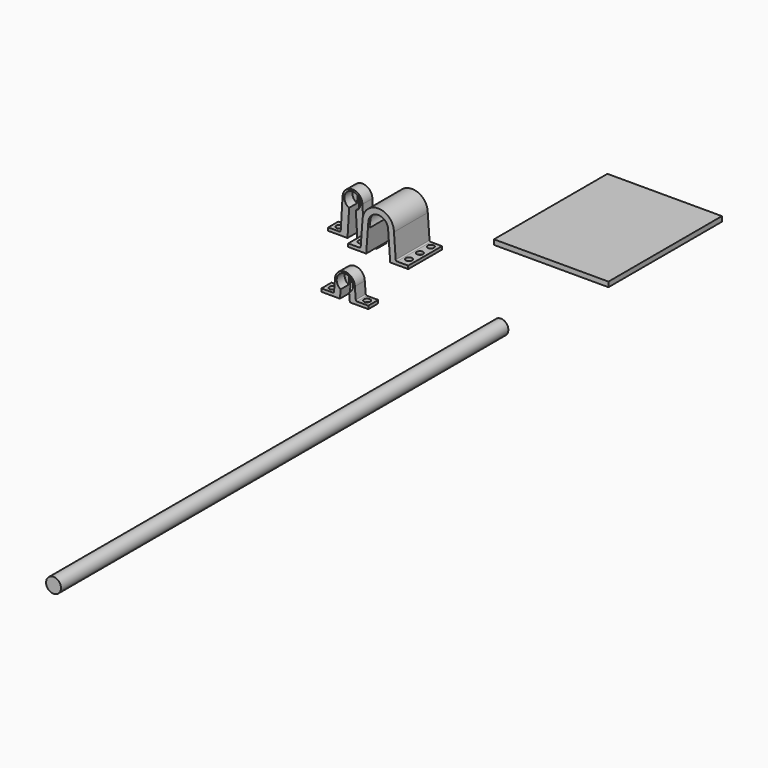
from build123d import *

# Parameters (mm, degrees)
F5_DEPTH  = 2
F7_DEPTH  = 10
F9_DEPTH  = 8
F10_DEPTH = 30
F11_R     = 2.55
F13_DEPTH = 2.5
F12_R     = 2.55
F14_DEPTH = 2.5
F15_R     = 2.55
F16_R     = 2.55
F17_DEPTH = 2.5
F19_DEPTH = 2
F20_R     = 1
F20_2_R   = 1
F22_DEPTH = 10
F24_R     = 2.55
F25_R     = 2.55
F26_DEPTH = 2.5
F27_R     = 1
F28_DEPTH = 8
F29_R     = 6
F30_DEPTH = 450
F31_W     = 92.136753723
F31_H     = 114.1239255667
F32_DEPTH = 4


with BuildPart() as f5:
    # F4 (on Front) → F5 (new body)
    with BuildSketch(Plane.XZ):
        with BuildLine():
            Line((6.114652846, 20.0959499925), (4.6272888825, 40.0959499925))
            ThreePointArc((4.6272888825, 40.0959499925), (-8.0474885181, 52.7707273931), (-20.7222659187, 40.0959499925))
            Line((-20.7222659187, 40.0959499925), (-22.2096298821, 20.0959499925))
            Line((-22.2096298821, 20.0959499925), (-32.2096298821, 20.0959499925))
            Line((-32.2096298821, 20.0959499925), (-32.2096298821, 17.5959499925))
            Line((-32.2096298821, 17.5959499925), (-17.720772977, 17.5959499925))
            Line((-17.720772977, 17.5959499925), (-16.0474885181, 40.0959499925))
            ThreePointArc((-16.0474885181, 40.0959499925), (-14.7241353227, 44.1939030544), (-11.6693254615, 47.2291328133))
            Line((-11.6693254615, 47.2291328133), (-10.0474885181, 46.804153925))
            ThreePointArc((-10.0474885181, 46.804153925), (-8.0474885181, 47.0959499925), (-6.0474885181, 46.804153925))
            Line((-6.0474885181, 46.804153925), (-4.4256515746, 47.2291328133))
            ThreePointArc((-4.4256515746, 47.2291328133), (-1.3708417134, 44.1939030544), (-0.0474885181, 40.0959499925))
            Line((-0.0474885181, 40.0959499925), (1.6257959408, 17.5959499925))
            Line((1.6257959408, 17.5959499925), (16.114652846, 17.5959499925))
            Line((16.114652846, 17.5959499925), (16.114652846, 20.0959499925))
            Line((16.114652846, 20.0959499925), (6.114652846, 20.0959499925))
        make_face()
    extrude(amount=F5_DEPTH)

    # F6 (on face) → F10 (join)
    with BuildSketch(Plane.XZ.offset(2)):
        with BuildLine():
            ThreePointArc((-16.3860004266, 35.544113094), (-8.0474885181, 49.5959499925), (0.2910233905, 35.544113094))
            Line((0.2910233905, 35.544113094), (1.6257959408, 17.5959499925))
            Line((1.6257959408, 17.5959499925), (16.114652846, 17.5959499925))
            Line((16.114652846, 17.5959499925), (16.114652846, 20.0959499925))
            Line((16.114652846, 20.0959499925), (6.114652846, 20.0959499925))
            Line((6.114652846, 20.0959499925), (4.6272888825, 40.0959499925))
            ThreePointArc((4.6272888825, 40.0959499925), (-8.0474885181, 52.7707273931), (-20.7222659187, 40.0959499925))
            Line((-20.7222659187, 40.0959499925), (-22.2096298821, 20.0959499925))
            Line((-22.2096298821, 20.0959499925), (-32.2096298821, 20.0959499925))
            Line((-32.2096298821, 20.0959499925), (-32.2096298821, 17.5959499925))
            Line((-32.2096298821, 17.5959499925), (-17.720772977, 17.5959499925))
            Line((-17.720772977, 17.5959499925), (-16.3860004266, 35.544113094))
        make_face()
    extrude(amount=F10_DEPTH)

    # F15 (on face) + F16 (on face) → F17 (cut, through all)
    with BuildSketch(Plane.XY.offset(20.0959499925)):
        with Locations((-27.2096298821, -5)):
            Circle(F15_R)
        with Locations((-27.2096298821, -16)):
            Circle(F15_R)
        with Locations((-27.2096298821, -27)):
            Circle(F15_R)
    with BuildSketch(Plane.XY.offset(20.0959499925)):
        with Locations((11.114652846, -27)):
            Circle(F16_R)
        with Locations((11.114652846, -16)):
            Circle(F16_R)
        with Locations((11.114652846, -5)):
            Circle(F16_R)
    extrude(amount=-F17_DEPTH, mode=Mode.SUBTRACT)

    # F18 (on face) → F19 (join)
    with BuildSketch(Plane.XZ.offset(32)):
        with BuildLine():
            ThreePointArc((-16.0474885181, 40.0959499925), (-8.0474885181, 48.0959499925), (-0.0474885181, 40.0959499925))
            Line((-0.0474885181, 40.0959499925), (0.2910233905, 35.544113094))
            ThreePointArc((0.2910233905, 35.544113094), (-8.0474885181, 49.5959499925), (-16.3860004266, 35.544113094))
            Line((-16.3860004266, 35.544113094), (-16.0474885181, 40.0959499925))
        make_face()
        with BuildLine():
            ThreePointArc((-16.3860004266, 35.544113094), (-8.0474885181, 49.5959499925), (0.2910233905, 35.544113094))
            Line((0.2910233905, 35.544113094), (1.6257959408, 17.5959499925))
            Line((1.6257959408, 17.5959499925), (16.114652846, 17.5959499925))
            Line((16.114652846, 17.5959499925), (16.114652846, 20.0959499925))
            Line((16.114652846, 20.0959499925), (6.114652846, 20.0959499925))
            Line((6.114652846, 20.0959499925), (4.6272888825, 40.0959499925))
            ThreePointArc((4.6272888825, 40.0959499925), (-8.0474885181, 52.7707273931), (-20.7222659187, 40.0959499925))
            Line((-20.7222659187, 40.0959499925), (-22.2096298821, 20.0959499925))
            Line((-22.2096298821, 20.0959499925), (-32.2096298821, 20.0959499925))
            Line((-32.2096298821, 20.0959499925), (-32.2096298821, 17.5959499925))
            Line((-32.2096298821, 17.5959499925), (-17.720772977, 17.5959499925))
            Line((-17.720772977, 17.5959499925), (-16.3860004266, 35.544113094))
        make_face()
    extrude(amount=F19_DEPTH)

    # F20
    f20_edges = [f5.edges().sort_by_distance(p)[0] for p in [
        (6.114653, -17, 20.09595),
        (-22.20963, -17, 20.09595),
    ]]
    fillet(f20_edges, radius=F20_R)


with BuildPart() as f7:
    # F3 (on Front) → F7 (new body)
    with BuildSketch(Plane.XZ):
        with BuildLine():
            Line((-38.4430666815, 10.2402567863), (-39.9554989645, 35.5427722446))
            ThreePointArc((-39.9554989645, 35.5427722446), (-47.9554989645, 43.5427722446), (-55.9554989645, 35.5427722446))
            Line((-55.9554989645, 35.5427722446), (-57.4679312476, 10.2402567863))
            Line((-57.4679312476, 10.2402567863), (-67.4679312476, 10.2402567863))
            Line((-67.4679312476, 10.2402567863), (-67.4679312476, 7.7402567863))
            Line((-67.4679312476, 7.7402567863), (-51.9554989645, 7.7402567863))
            Line((-51.9554989645, 7.7402567863), (-49.9554989645, 41.1996264941))
            ThreePointArc((-49.9554989645, 41.1996264941), (-47.9554989645, 41.5427722446), (-45.9554989645, 41.1996264941))
            Line((-45.9554989645, 41.1996264941), (-43.9554989645, 7.7402567863))
            Line((-43.9554989645, 7.7402567863), (-28.4430666815, 7.7402567863))
            Line((-28.4430666815, 7.7402567863), (-28.4430666815, 10.2402567863))
            Line((-28.4430666815, 10.2402567863), (-38.4430666815, 10.2402567863))
        make_face()
    extrude(amount=F7_DEPTH)

    # F8 (on face) → F9 (cut)
    with BuildSketch(Plane.XZ.offset(10)):
        with BuildLine():
            ThreePointArc((-45.2605220173, 29.5728811858), (-42.4530177513, 31.9895764299), (-41.4054989645, 35.5427722446))
            ThreePointArc((-41.4054989645, 35.5427722446), (-51.5086947793, 41.0452534578), (-50.6504759118, 29.5728811858))
            Line((-50.6504759118, 29.5728811858), (-49.9554989645, 41.1996264941))
            ThreePointArc((-49.9554989645, 41.1996264941), (-47.9554989645, 41.5427722446), (-45.9554989645, 41.1996264941))
            Line((-45.9554989645, 41.1996264941), (-45.2605220173, 29.5728811858))
        make_face()
    extrude(amount=-F9_DEPTH, mode=Mode.SUBTRACT)

    # F11 (on face) → F13 (cut, through all)
    with BuildSketch(Plane.XY.offset(10.2402567863)):
        with Locations((-62.4679312476, -5)):
            Circle(F11_R)
    extrude(amount=-F13_DEPTH, mode=Mode.SUBTRACT)

    # F12 (on face) → F14 (cut, through all)
    with BuildSketch(Plane.XY.offset(10.2402567863)):
        with Locations((-33.4430666815, -5)):
            Circle(F12_R)
    extrude(amount=-F14_DEPTH, mode=Mode.SUBTRACT)

    # F20#2
    f20_2_edges = [f7.edges().sort_by_distance(p)[0] for p in [
        (-38.443067, -5, 10.240257),
        (-57.467931, -5, 10.240257),
    ]]
    fillet(f20_2_edges, radius=F20_2_R)


with BuildPart() as f22:
    # F21 (on Front) → F22 (new body)
    with BuildSketch(Plane.XZ):
        with BuildLine():
            Line((-45.2216026043, -34.7250620283), (-46.0570544552, -24.7250620283))
            ThreePointArc((-46.0570544552, -24.7250620283), (-54.0570544552, -16.7250620283), (-62.0570544552, -24.7250620283))
            Line((-62.0570544552, -24.7250620283), (-62.8925063061, -34.7250620283))
            Line((-62.8925063061, -34.7250620283), (-72.8925063061, -34.7250620283))
            Line((-72.8925063061, -34.7250620283), (-72.8925063061, -37.2250620283))
            Line((-72.8925063061, -37.2250620283), (-58.0570544552, -37.2250620283))
            Line((-58.0570544552, -37.2250620283), (-56.5570544552, -19.270705971))
            ThreePointArc((-56.5570544552, -19.270705971), (-54.0570544552, -18.7250620283), (-51.5570544552, -19.270705971))
            Line((-51.5570544552, -19.270705971), (-50.0570544552, -37.2250620283))
            Line((-50.0570544552, -37.2250620283), (-35.2216026043, -37.2250620283))
            Line((-35.2216026043, -37.2250620283), (-35.2216026043, -34.7250620283))
            Line((-35.2216026043, -34.7250620283), (-45.2216026043, -34.7250620283))
        make_face()
    extrude(amount=F22_DEPTH)

    # F24 (on face) + F25 (on face) → F26 (cut, through all)
    with BuildSketch(Plane.XY.offset(-34.7250620283)):
        with Locations((-67.8925063061, -5)):
            Circle(F24_R)
    with BuildSketch(Plane.XY.offset(-34.7250620283)):
        with Locations((-40.2216026043, -5)):
            Circle(F25_R)
    extrude(amount=-F26_DEPTH, mode=Mode.SUBTRACT)

    # F27
    f27_edges = [f22.edges().sort_by_distance(p)[0] for p in [
        (-62.892506, -5, -34.725062),
        (-45.221603, -5, -34.725062),
    ]]
    fillet(f27_edges, radius=F27_R)

    # F23 (on face) → F28 (cut)
    with BuildSketch(Plane.XZ.offset(10)):
        with BuildLine():
            ThreePointArc((-50.6301258389, -30.3656435816), (-48.3047623526, -27.9609754336), (-47.4570544552, -24.7250620283))
            ThreePointArc((-47.4570544552, -24.7250620283), (-57.2929678604, -18.9727699257), (-57.4839830714, -30.3656435816))
            Line((-57.4839830714, -30.3656435816), (-56.5570544552, -19.270705971))
            ThreePointArc((-56.5570544552, -19.270705971), (-54.0570544552, -18.7250620283), (-51.5570544552, -19.270705971))
            Line((-51.5570544552, -19.270705971), (-50.6301258389, -30.3656435816))
        make_face()
    extrude(amount=-F28_DEPTH, mode=Mode.SUBTRACT)


with BuildPart() as f30:
    # F29 (on Front) → F30 (new body)
    with BuildSketch(Plane.XZ):
        with Locations((63.4935870767, -21.8376088887)):
            Circle(F29_R)
    extrude(amount=F30_DEPTH)


with BuildPart() as f32:
    # F31 (on Top) → F32 (new body)
    with BuildSketch(Plane.XY):
        with Locations((62.5587562099, 108.8034138083)):
            Rectangle(F31_W, F31_H)
    extrude(amount=F32_DEPTH)


solid = Compound([f5.part, f7.part, f22.part, f30.part, f32.part])
